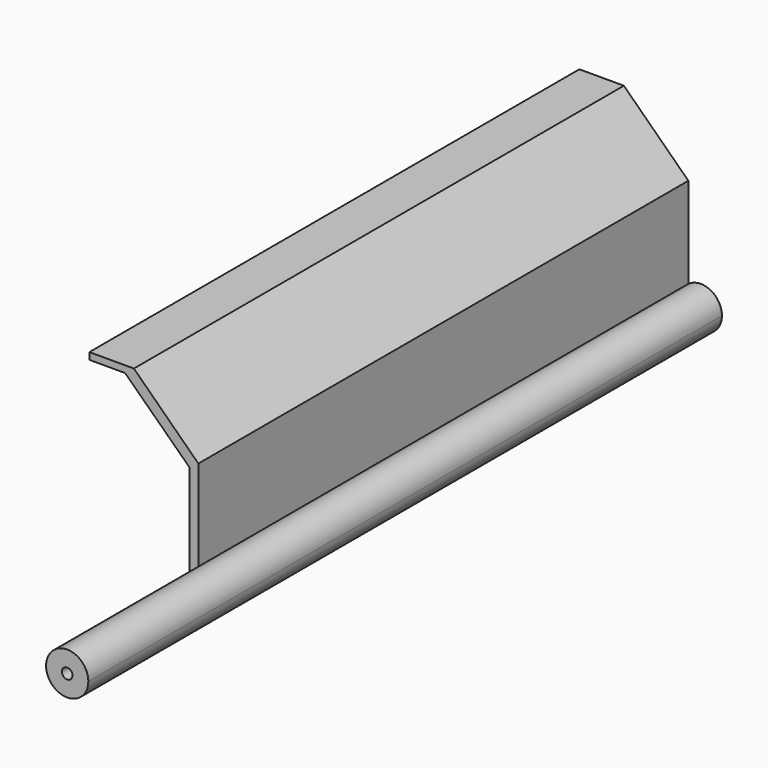
from build123d import *

# Parameters (mm, degrees)
F0_R     = 0.5
F1_DEPTH = 75
F2_DEPTH = 58


with BuildPart() as f1:
    # F0 (on Front) → F1 (new body)
    with BuildSketch(Plane.XZ):
        with BuildLine():
            ThreePointArc((0.820651, 1.615282), (0.216927, 0.905898), (0, 0))
            ThreePointArc((0, 0), (2, -2), (4, 0))
            ThreePointArc((4, 0), (2.905898, 1.783073), (0.820651, 1.615282))
        make_face()
        with Locations((2, 0)):
            Circle(F0_R, mode=Mode.SUBTRACT)
    extrude(amount=F1_DEPTH)

    # F0 (on Front) → F2 (join)
    with BuildSketch(Plane.XZ):
        with BuildLine():
            Line((0, 9.6), (0, 0))
            ThreePointArc((0, 0), (0.216927, 0.905898), (0.820651, 1.615282))
            Line((0.820651, 1.615282), (0.820651, 10.211033))
            Line((0.820651, 10.211033), (-5.284584, 16.147118))
            Line((-5.284584, 16.147118), (-9.5, 16.147118))
            Line((-9.5, 16.147118), (-9.5, 15.5))
            Line((-9.5, 15.5), (-6.118823, 15.5))
            Line((-6.118823, 15.5), (0, 9.6))
        make_face()
        with BuildLine():
            ThreePointArc((0.820651, 1.615282), (0.216927, 0.905898), (0, 0))
            ThreePointArc((0, 0), (2, -2), (4, 0))
            ThreePointArc((4, 0), (2.905898, 1.783073), (0.820651, 1.615282))
        make_face()
        with Locations((2, 0)):
            Circle(F0_R, mode=Mode.SUBTRACT)
    extrude(amount=F2_DEPTH)


solid = f1.part
